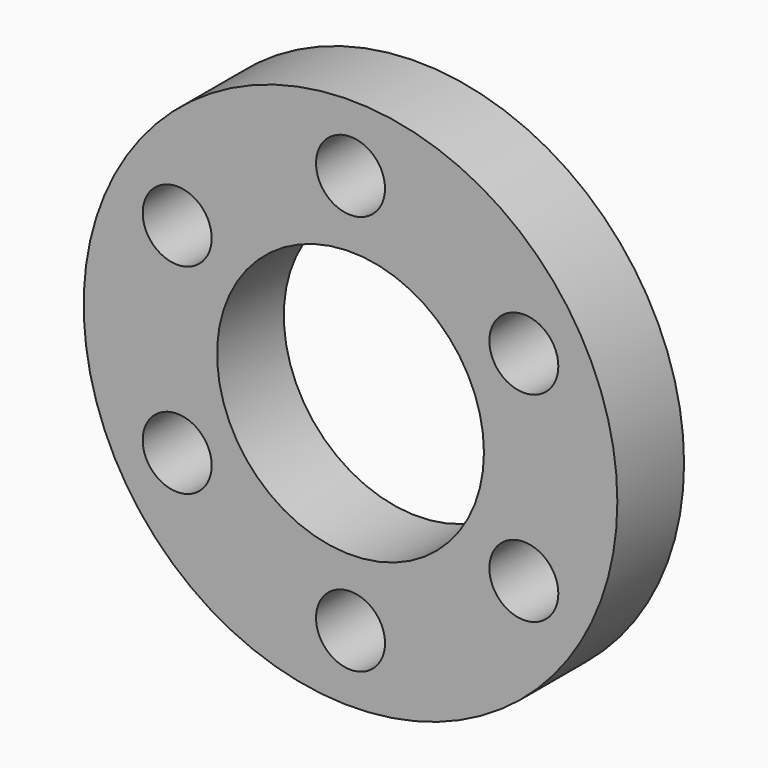
from build123d import *

# Parameters (mm, degrees)
F0_R     = 50.8
F0_R_2   = 6.565866
F0_R_3   = 25.4
F1_DEPTH = 7.9375


with BuildPart() as f1:
    # F0 (on Front) → F1 (new body, symmetric)
    with BuildSketch(Plane.XZ):
        Circle(F0_R)
        with Locations((0, -38.1)):
            Circle(F0_R_2, mode=Mode.SUBTRACT)
        with Locations((-32.995568, -19.05)):
            Circle(F0_R_2, mode=Mode.SUBTRACT)
        Circle(F0_R_3, mode=Mode.SUBTRACT)
        with Locations((32.995568, -19.05)):
            Circle(F0_R_2, mode=Mode.SUBTRACT)
        with Locations((-32.995568, 19.05)):
            Circle(F0_R_2, mode=Mode.SUBTRACT)
        with Locations((0, 38.1)):
            Circle(F0_R_2, mode=Mode.SUBTRACT)
        with Locations((32.995568, 19.05)):
            Circle(F0_R_2, mode=Mode.SUBTRACT)
    extrude(amount=F1_DEPTH, both=True)


solid = f1.part
